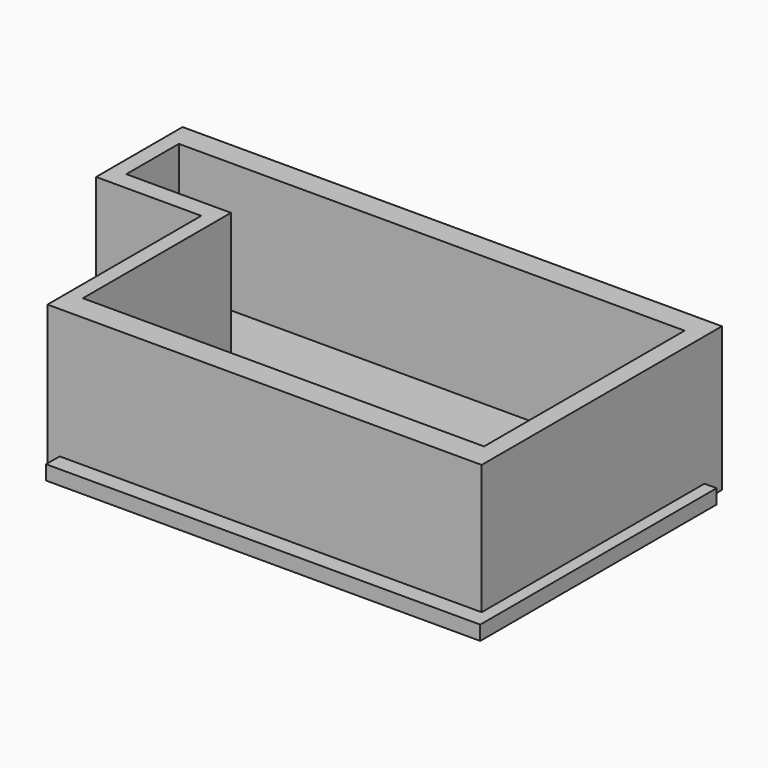
from build123d import *

# Parameters (mm, degrees)
F0_W     = 36.6931557655
F0_H     = 38.2560035214
F1_DEPTH = 5
F2_W     = 5.3727775812
F2_H     = 8.3350656513
F2_H_2   = 22.7809343487
F2_W_2   = 6.2871351838
F2_H_3   = 86.9809612632
F2_H_4   = 8.8957324624
F2_W_3   = 139.1903422773
F2_W_4   = 5.1779747009
F2_H_5   = 6.393648684
F2_H_6   = 57.8063782305
F3_DEPTH = 50


with BuildPart() as f1:
    # F0 (on Top) → F1 (new body)
    with BuildSketch(Plane.XY):
        Polygon((55.0567060709, 51.2157864869), (-95.5970734358, 51.2157864869), (-95.5970734358, 12.9597829655), (-95.5970734358, -51.3134598732), (55.0567060709, -51.3134598732), align=None)
        with Locations((-113.9436513186, 32.0877847262)):
            Rectangle(F0_W, F0_H)
    extrude(amount=F1_DEPTH)

    # F2 (on Top) → F3 (join)
    with BuildSketch(Plane.XY):
        with Locations((-133.6389258504, 54.6333736719)):
            Rectangle(F2_W, F2_H)
        Polygon((50.8251525462, 58.8009064976), (-130.9525370598, 58.8009064976), (-130.9525370598, 50.4658408463), (44.5380173624, 50.4658408463), (50.8251525462, 50.4658408463), align=None)
        with Locations((-133.6389258504, 39.0753736719)):
            Rectangle(F2_W, F2_H_2)
        Polygon((-130.9525370598, 27.6849064976), (-136.325314641, 27.6849064976), (-136.325314641, 21.2912578136), (-99.8302996159, 21.2912578136), (-99.8302996159, 27.6849064976), align=None)
        with Locations((47.6815849543, 6.9753602147)):
            Rectangle(F2_W_2, F2_H_3)
        with Locations((47.6815849543, -40.9629866481)):
            Rectangle(F2_W_2, F2_H_4)
        with Locations((-25.0571537763, -40.9629866481)):
            Rectangle(F2_W_3, F2_H_4)
        with Locations((-97.2413122654, 24.4880821556)):
            Rectangle(F2_W_4, F2_H_5)
        with Locations((-97.2413122654, -7.6119313017)):
            Rectangle(F2_W_4, F2_H_6)
        with Locations((-97.2413122654, -40.9629866481)):
            Rectangle(F2_W_4, F2_H_4)
    extrude(amount=F3_DEPTH)


solid = f1.part
